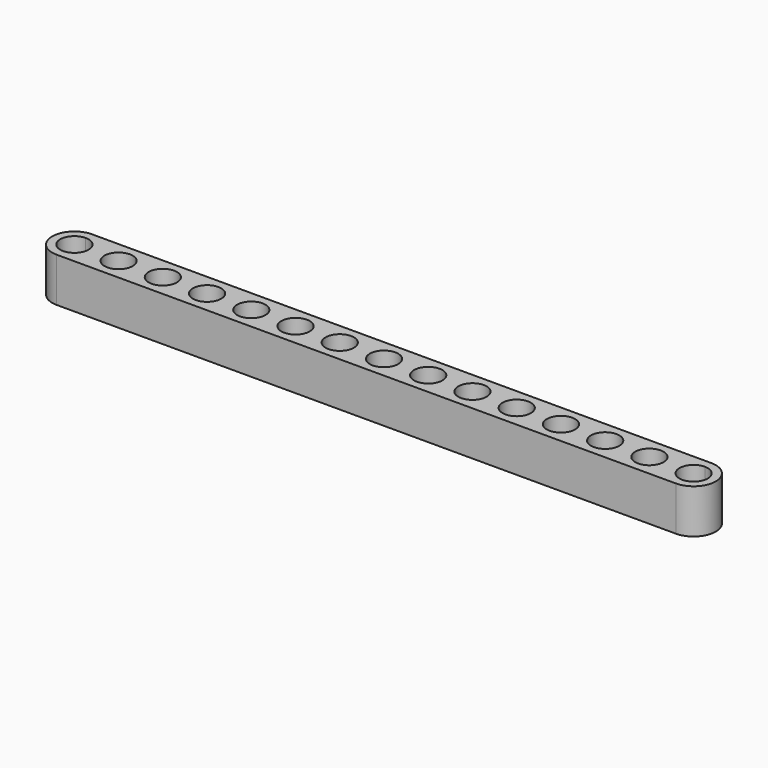
from build123d import *

# Parameters (mm, degrees)
F0_R     = 2.54
F1_DEPTH = 7.9375


with BuildPart() as f1:
    # F0 (on Top) → F1 (new body)
    with BuildSketch(Plane.XY):
        with BuildLine():
            Line((111.125, 3.96875), (0, 3.96875))
            Line((0, 3.96875), (0, 2.54))
            ThreePointArc((0, 2.54), (1.796051, 1.796051), (2.54, 0))
            ThreePointArc((2.54, 0), (1.796051, -1.796051), (0, -2.54))
            Line((0, -2.54), (0, -3.96875))
            Line((0, -3.96875), (111.125, -3.96875))
            Line((111.125, -3.96875), (111.125, -2.54))
            ThreePointArc((111.125, -2.54), (108.585, 0), (111.125, 2.54))
            Line((111.125, 2.54), (111.125, 3.96875))
        make_face()
        with Locations((7.9375, 0)):
            Circle(F0_R, mode=Mode.SUBTRACT)
        with Locations((15.875, 0)):
            Circle(F0_R, mode=Mode.SUBTRACT)
        with Locations((23.8125, 0)):
            Circle(F0_R, mode=Mode.SUBTRACT)
        with Locations((31.75, 0)):
            Circle(F0_R, mode=Mode.SUBTRACT)
        with Locations((39.6875, 0)):
            Circle(F0_R, mode=Mode.SUBTRACT)
        with Locations((47.625, 0)):
            Circle(F0_R, mode=Mode.SUBTRACT)
        with Locations((55.5625, 0)):
            Circle(F0_R, mode=Mode.SUBTRACT)
        with Locations((63.5, 0)):
            Circle(F0_R, mode=Mode.SUBTRACT)
        with Locations((71.4375, 0)):
            Circle(F0_R, mode=Mode.SUBTRACT)
        with Locations((79.375, 0)):
            Circle(F0_R, mode=Mode.SUBTRACT)
        with Locations((87.3125, 0)):
            Circle(F0_R, mode=Mode.SUBTRACT)
        with Locations((95.25, 0)):
            Circle(F0_R, mode=Mode.SUBTRACT)
        with Locations((103.1875, 0)):
            Circle(F0_R, mode=Mode.SUBTRACT)
        with BuildLine():
            Line((0, 2.54), (0, 3.96875))
            ThreePointArc((0, 3.96875), (-3.96875, 0), (0, -3.96875))
            Line((0, -3.96875), (0, -2.54))
            ThreePointArc((0, -2.54), (-2.54, 0), (0, 2.54))
        make_face()
        with BuildLine():
            ThreePointArc((111.125, -3.96875), (115.09375, 0), (111.125, 3.96875))
            Line((111.125, 3.96875), (111.125, 2.54))
            ThreePointArc((111.125, 2.54), (112.921051, 1.796051), (113.665, 0))
            ThreePointArc((113.665, 0), (112.921051, -1.796051), (111.125, -2.54))
            Line((111.125, -2.54), (111.125, -3.96875))
        make_face()
    extrude(amount=F1_DEPTH)


solid = f1.part
